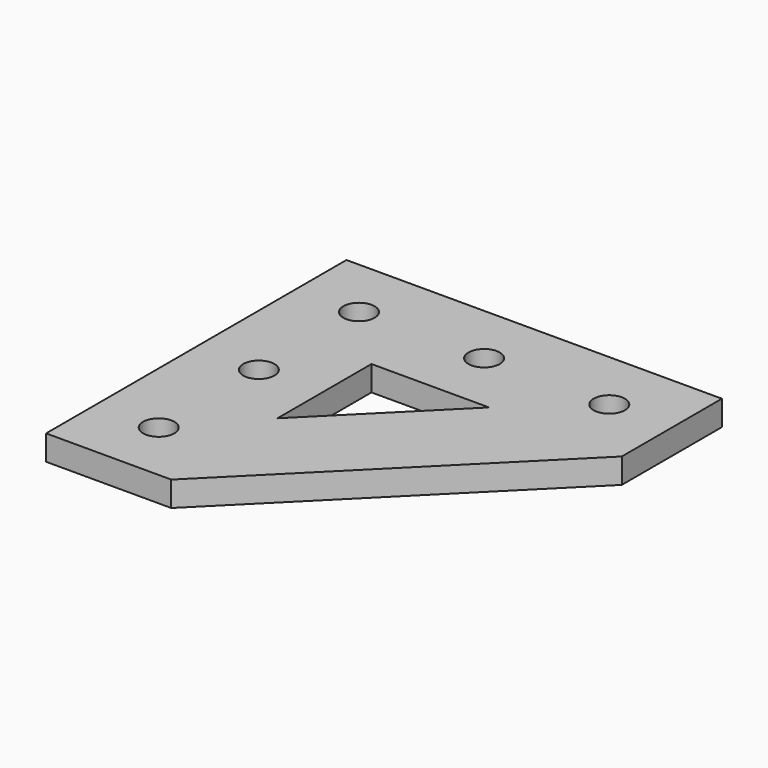
from build123d import *

# Parameters (mm, degrees)
F0_R     = 2.5
F1_DEPTH = 4


with BuildPart() as f1:
    # F0 (on Top) → F1 (new body)
    with BuildSketch(Plane.XY):
        Polygon((30, 30), (-30, 30), (-30, -30), (-10, -30), (30, 10), align=None)
        with Locations((-20, -20)):
            Circle(F0_R, mode=Mode.SUBTRACT)
        with Locations((-20, 0)):
            Circle(F0_R, mode=Mode.SUBTRACT)
        Polygon((8.786797, 10), (-10, -8.786797), (-10, 10), align=None, mode=Mode.SUBTRACT)
        with Locations((-20, 20)):
            Circle(F0_R, mode=Mode.SUBTRACT)
        with Locations((0, 20)):
            Circle(F0_R, mode=Mode.SUBTRACT)
        with Locations((20, 20)):
            Circle(F0_R, mode=Mode.SUBTRACT)
    extrude(amount=F1_DEPTH)


solid = f1.part
